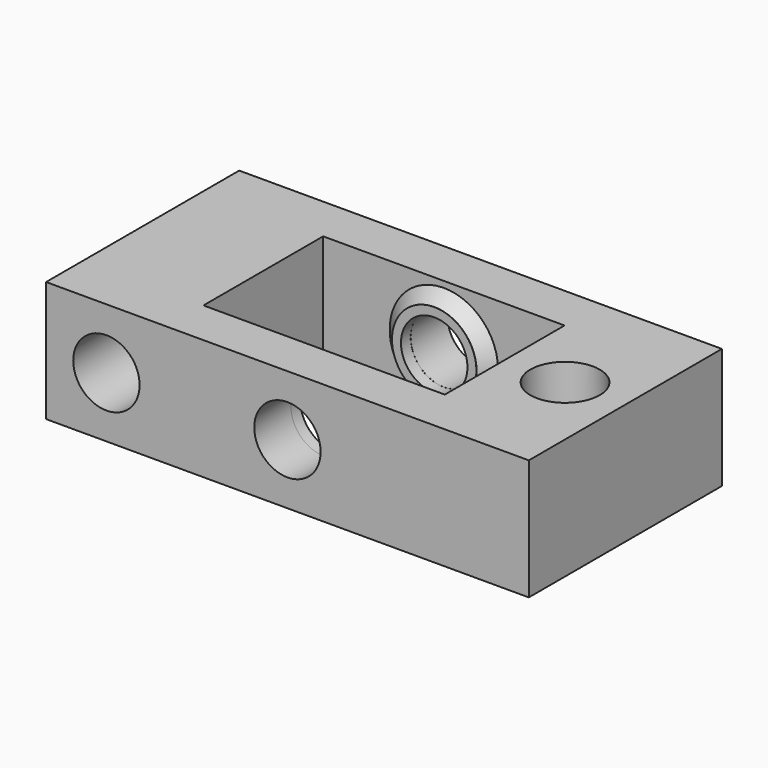
from build123d import *

# Parameters (mm, degrees)
SKETCH_W         = 40
SKETCH_H         = 20
SKETCH_W_2       = 20
SKETCH_H_2       = 12.4
PAD_DEPTH        = 10
HOLE_D           = 3.5
HOLE_DEPTH       = 25
HOLE_CBORE_D     = 5.75
HOLE_CBORE_DEPTH = 3
POCKET_DEPTH     = 2.5
SKETCH003_R      = 2.75
POCKET001_DEPTH  = 20.001
SKETCH004_R      = 3.5
SKETCH004_R_2    = 2.774564
PAD001_DEPTH     = 1
SKETCH005_R      = 3.5
SKETCH005_R_2    = 2.755211
PAD002_DEPTH     = 1
CHAMFER_SIZE     = 0.99


with BuildPart() as part:
    # Sketch → Pad (new body)
    with BuildSketch(Plane.XY):
        with Locations((20, -10)):
            Rectangle(SKETCH_W, SKETCH_H)
        with Locations((20, -10)):
            Rectangle(SKETCH_W_2, SKETCH_H_2, mode=Mode.SUBTRACT)
    extrude(amount=PAD_DEPTH)

    # Hole
    with Locations(Plane.XY.offset(10)):
        with Locations((35, -10)):
            CounterBoreHole(HOLE_D / 2, HOLE_CBORE_D / 2, HOLE_CBORE_DEPTH, depth=HOLE_DEPTH)

    # Sketch002 (on Face4 of Hole) → Pocket (cut)
    with BuildSketch(Plane(origin=(0, 0, 0), x_dir=(1, 0, 0), z_dir=(0, 0, -1))):
        Polygon((37.95, 11.703183), (35, 13.406367), (32.05, 11.703183), (32.05, 8.296817), (35, 6.593633), (37.95, 8.296817), align=None)
    extrude(amount=-POCKET_DEPTH, mode=Mode.SUBTRACT)

    # Sketch003 (on Face1 of Pocket) → Pocket001 (cut, through all)
    with BuildSketch(Plane(origin=(0, 0, 0), x_dir=(-1, 0, 0), z_dir=(0, 1, 0))):
        with Locations((-5, 5)):
            Circle(SKETCH003_R)
        with Locations((-20, 5)):
            Circle(SKETCH003_R)
    extrude(amount=-POCKET001_DEPTH, mode=Mode.SUBTRACT)

    # Sketch004 (on Face16 of Pocket001) → Pad001 (join)
    with BuildSketch(Plane(origin=(0, -16.2, 0), x_dir=(-1, 0, 0), z_dir=(0, 1, 0))):
        with Locations((-20, 5)):
            Circle(SKETCH004_R)
        with Locations((-20, 5)):
            Circle(SKETCH004_R_2, mode=Mode.SUBTRACT)
    extrude(amount=PAD001_DEPTH)

    # Sketch005 (on Face17 of Pad001) → Pad002 (join)
    with BuildSketch(Plane.XZ.offset(3.8)):
        with Locations((20, 5)):
            Circle(SKETCH005_R)
        with Locations((20, 5)):
            Circle(SKETCH005_R_2, mode=Mode.SUBTRACT)
    extrude(amount=PAD002_DEPTH)

    # Chamfer
    chamfer_edges = [part.edges().sort_by_distance(p)[0] for p in [
        (16.5, -3.8, 5),
        (23.5, -16.2, 5),
    ]]
    chamfer(chamfer_edges, length=CHAMFER_SIZE)


solid = part.part
